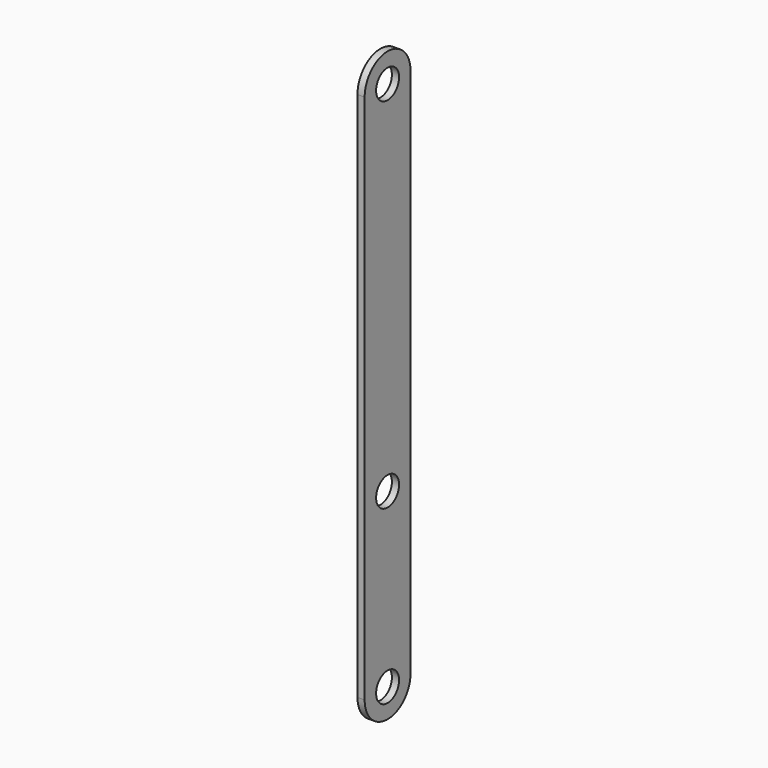
from build123d import *

# Parameters (mm, degrees)
F0_R     = 6.35
F1_DEPTH = 3.175


with BuildPart() as f1:
    # F0 (on Right) → F1 (new body)
    with BuildSketch(Plane.YZ):
        with BuildLine():
            Line((0, 152.4), (0, 0))
            Line((0, 0), (0, -82.55))
            Line((0, -82.55), (6.35, -82.55))
            ThreePointArc((6.35, -82.55), (12.7, -76.2), (19.05, -82.55))
            Line((19.05, -82.55), (25.4, -82.55))
            Line((25.4, -82.55), (25.4, -9.525))
            Line((25.4, -9.525), (25.4, 6.007355))
            Line((25.4, 6.007355), (25.4, 152.4))
            ThreePointArc((25.4, 152.4), (12.7, 165.1), (0, 152.4))
        make_face()
        with Locations((12.7, -6.35)):
            Circle(F0_R, mode=Mode.SUBTRACT)
        with Locations((12.7, 152.4)):
            Circle(F0_R, mode=Mode.SUBTRACT)
        with BuildLine():
            Line((6.35, -82.55), (0, -82.55))
            ThreePointArc((0, -82.55), (12.7, -95.25), (25.4, -82.55))
            Line((25.4, -82.55), (19.05, -82.55))
            ThreePointArc((19.05, -82.55), (12.7, -88.9), (6.35, -82.55))
        make_face()
    extrude(amount=F1_DEPTH)


solid = f1.part
